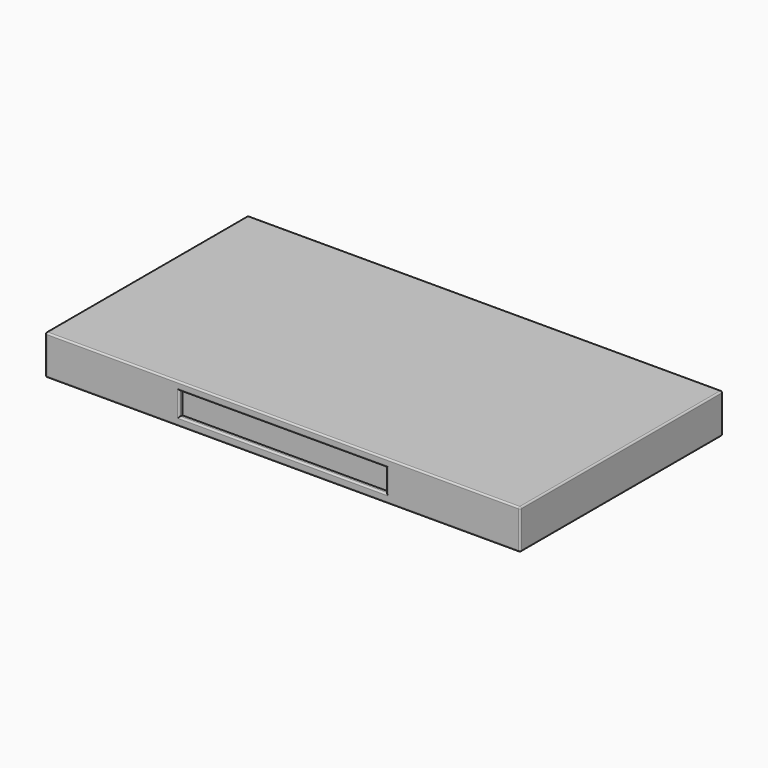
from build123d import *

# Parameters (mm, degrees)
F0_W     = 54.5732825994
F0_H     = 50.0136017799
F1_DEPTH = 50
F2_DEPTH = 600
F3_DEPTH = 320
F4_W     = 261.9102597237
F4_H     = 29.2285606265
F5_DEPTH = 5
F6_R     = 2


with BuildPart() as f1:
    # F0 (on Top) → F1 (new body)
    with BuildSketch(Plane.XY):
        with Locations((-27.2866412997, -25.00680089)):
            Rectangle(F0_W, F0_H)
    extrude(amount=F1_DEPTH)

    # F2 (add): a face of the model
    f2_faces = [f1.faces().sort_by_distance(p)[0] for p in [
        (0, -25.00680089, 25),
    ]]
    extrude(f2_faces, amount=-F2_DEPTH)

    # F3 (add): a face of the model
    f3_faces = [f1.faces().sort_by_distance(p)[0] for p in [
        (-300, 0, 25),
    ]]
    extrude(f3_faces, amount=-F3_DEPTH)

    # F4 (on face) → F5 (cut)
    with BuildSketch(Plane.XZ.offset(320)):
        with Locations((-299.9015450478, 25.3184698522)):
            Rectangle(F4_W, F4_H)
    extrude(amount=-F5_DEPTH, mode=Mode.SUBTRACT)

    # F6
    f6_edges = [f1.edges().sort_by_distance(p)[0] for p in [
        (0, -160, 50),
        (-300, 0, 50),
        (-600, -160, 50),
        (-300, -320, 50),
        (0, -320, 25),
        (-300, -320, 0),
        (-600, -320, 25),
        (-299.901545, -320, 39.93275),
        (-430.856675, -320, 25.31847),
        (-299.901545, -320, 10.70419),
        (-168.946415, -320, 25.31847),
        (-300, 0, 0),
        (-600, -160, 0),
        (0, -160, 0),
        (-600, 0, 25),
        (0, 0, 25),
    ]]
    fillet(f6_edges, radius=F6_R)


solid = f1.part
